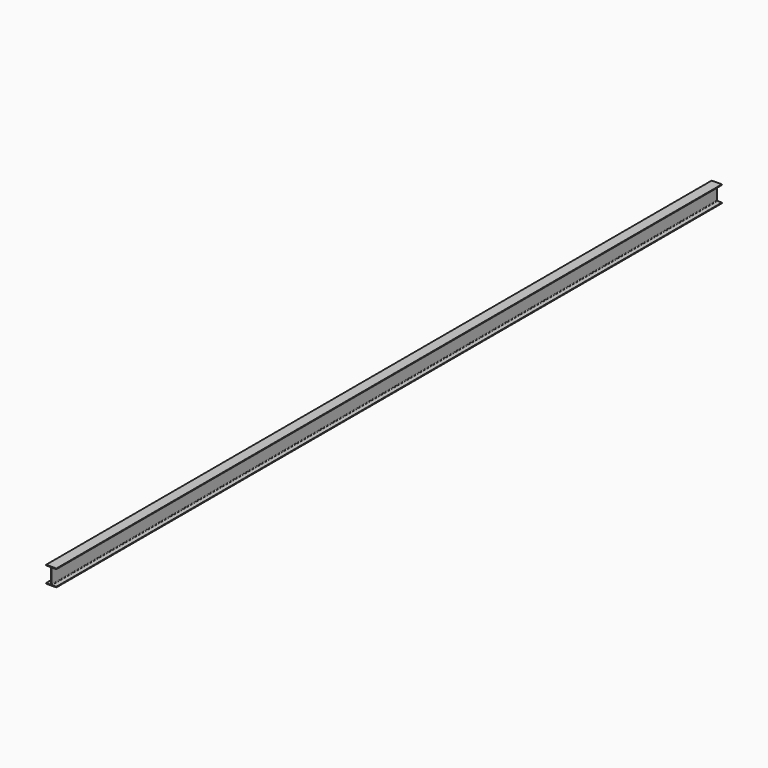
from build123d import *

# Parameters (mm, degrees)
F1_DEPTH = 8229.6


with BuildPart() as f1:
    # F0 (on Front) → F1 (new body)
    with BuildSketch(Plane.XZ):
        with BuildLine():
            ThreePointArc((-50.8, 137.414), (-50.725605, 137.234395), (-50.546, 137.16))
            Line((-50.546, 137.16), (-9.525, 137.16))
            ThreePointArc((-9.525, 137.16), (-5.034872, 135.300128), (-3.175, 130.81))
            Line((-3.175, 130.81), (-3.175, -8.89))
            ThreePointArc((-3.175, -8.89), (-5.034872, -13.380128), (-9.525, -15.24))
            Line((-9.525, -15.24), (-50.546, -15.24))
            ThreePointArc((-50.546, -15.24), (-50.725605, -15.314395), (-50.8, -15.494))
            Line((-50.8, -15.494), (-50.8, -21.336))
            ThreePointArc((-50.8, -21.336), (-50.725605, -21.515605), (-50.546, -21.59))
            Line((-50.546, -21.59), (50.546, -21.59))
            ThreePointArc((50.546, -21.59), (50.725605, -21.515605), (50.8, -21.336))
            Line((50.8, -21.336), (50.8, -15.494))
            ThreePointArc((50.8, -15.494), (50.725605, -15.314395), (50.546, -15.24))
            Line((50.546, -15.24), (9.525, -15.24))
            ThreePointArc((9.525, -15.24), (5.034872, -13.380128), (3.175, -8.89))
            Line((3.175, -8.89), (3.175, 130.81))
            ThreePointArc((3.175, 130.81), (5.034872, 135.300128), (9.525, 137.16))
            Line((9.525, 137.16), (50.546, 137.16))
            ThreePointArc((50.546, 137.16), (50.725605, 137.234395), (50.8, 137.414))
            Line((50.8, 137.414), (50.8, 143.256))
            ThreePointArc((50.8, 143.256), (50.725605, 143.435605), (50.546, 143.51))
            Line((50.546, 143.51), (-50.546, 143.51))
            ThreePointArc((-50.546, 143.51), (-50.725605, 143.435605), (-50.8, 143.256))
            Line((-50.8, 143.256), (-50.8, 137.414))
        make_face()
    extrude(amount=F1_DEPTH)


solid = f1.part
